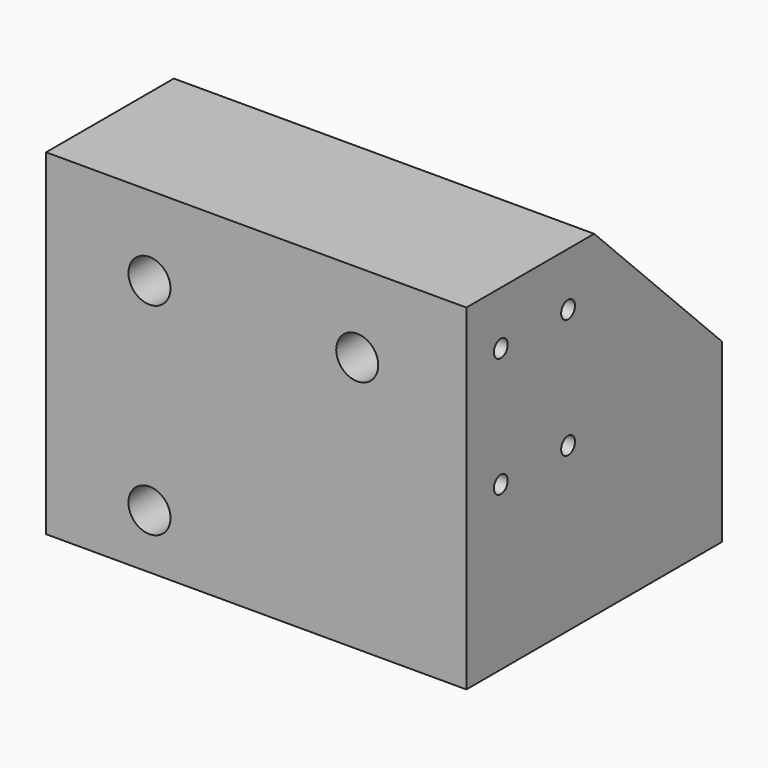
from build123d import *

# Parameters (mm, degrees)
F1_DEPTH = 79.375
F3_D     = 15.875
F3_DEPTH = 50.8
F3_TIP   = 4.7693311635
F5_D     = 6.5278
F5_DEPTH = 23.2833333333
F5_TIP   = 1.9611489744


with BuildPart() as f1:
    # F0 (on Right) → F1 (new body, symmetric)
    with BuildSketch(Plane.YZ):
        Polygon((-60.325, 63.5), (-60.325, -63.5), (60.325, -63.5), (60.325, 3.175), (0, 63.5), align=None)
    extrude(amount=F1_DEPTH, both=True)

    # F3
    with Locations(Plane.XZ.offset(60.325)):
        with Locations((-40.3225, -42.8625), (-40.3225, 33.4772), (38.1508, 33.4772)):
            Hole(F3_D / 2, depth=F3_DEPTH)
            with Locations((0, 0, -(F3_DEPTH + F3_TIP / 2))):  # 118° drill point
                Cone(0, F3_D / 2, F3_TIP, mode=Mode.SUBTRACT)

    # F5
    with Locations(Plane.YZ.offset(79.375)):
        with Locations((-44.069, 43.307), (-44.069, -1.905), (-12.319, -1.905), (-12.319, 43.307)):
            Hole(F5_D / 2, depth=F5_DEPTH)
            with Locations((0, 0, -(F5_DEPTH + F5_TIP / 2))):  # 118° drill point
                Cone(0, F5_D / 2, F5_TIP, mode=Mode.SUBTRACT)


solid = f1.part
